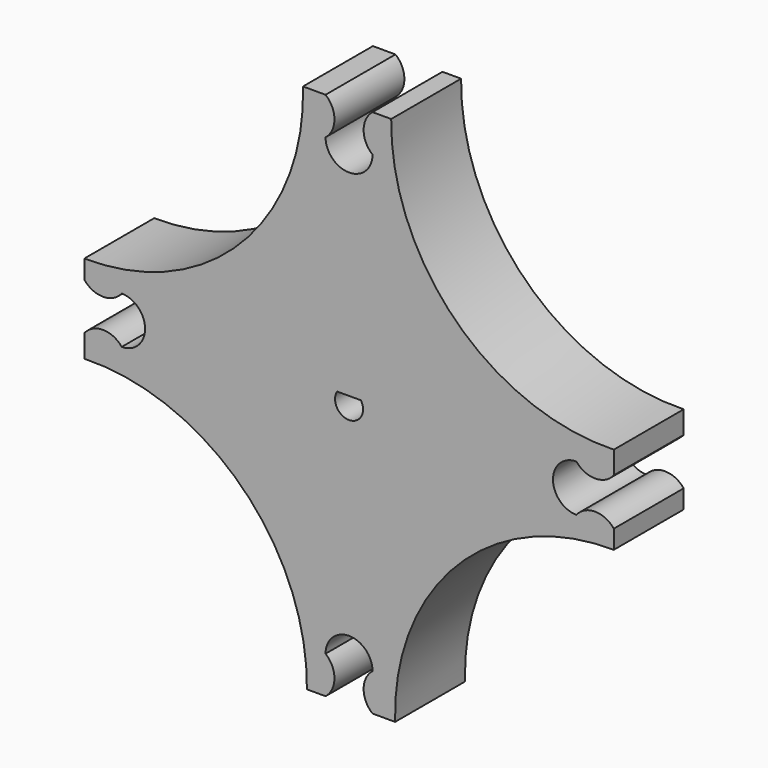
from build123d import *

# Parameters (mm, degrees)
F1_DEPTH = 19.05
F4_DEPTH = 19.051
F6_DEPTH = 19.051
F7_DEPTH = 19.051


with BuildPart() as f1:
    # F0 (on Front) → F1 (new body)
    with BuildSketch(Plane.XZ):
        with BuildLine():
            ThreePointArc((7.08977, 74.735215), (-4.612113, 72.936745), (-10.446423, 62.634833))
            ThreePointArc((-10.446423, 62.634833), (-45.232522, 44.567577), (-62.782662, 9.51774))
            ThreePointArc((-62.782662, 9.51774), (-63.498259, -0.470187), (-62.634833, -10.446423))
            ThreePointArc((-62.634833, -10.446423), (-44.567577, -45.232522), (-9.51774, -62.782662))
            ThreePointArc((-9.51774, -62.782662), (0.470187, -63.498259), (10.446423, -62.634833))
            ThreePointArc((10.446423, -62.634833), (45.232522, -44.567577), (62.782662, -9.51774))
            ThreePointArc((62.782662, -9.51774), (63.498259, 0.470187), (62.634833, 10.446423))
            ThreePointArc((62.634833, 10.446423), (44.567577, 45.232522), (9.51774, 62.782662))
            ThreePointArc((9.51774, 62.782662), (4.127105, 67.910519), (7.08977, 74.735215))
        make_face()
        with BuildLine():
            ThreePointArc((-62.634833, -10.446423), (-63.498259, -0.470187), (-62.782662, 9.51774))
            ThreePointArc((-62.782662, 9.51774), (-67.910519, 4.127105), (-74.735215, 7.08977))
            ThreePointArc((-74.735215, 7.08977), (-72.936745, -4.612113), (-62.634833, -10.446423))
        make_face()
        with BuildLine():
            ThreePointArc((74.735215, -7.08977), (72.936745, 4.612113), (62.634833, 10.446423))
            ThreePointArc((62.634833, 10.446423), (63.498259, 0.470187), (62.782662, -9.51774))
            ThreePointArc((62.782662, -9.51774), (67.910519, -4.127105), (74.735215, -7.08977))
        make_face()
        with BuildLine():
            ThreePointArc((10.446423, -62.634833), (0.470187, -63.498259), (-9.51774, -62.782662))
            ThreePointArc((-9.51774, -62.782662), (-4.127105, -67.910519), (-7.08977, -74.735215))
            ThreePointArc((-7.08977, -74.735215), (4.612113, -72.936745), (10.446423, -62.634833))
        make_face()
    extrude(amount=F1_DEPTH)

    # F3 (on face) → F4 (cut, through all)
    with BuildSketch(Plane.XZ.offset(19.05)):
        with BuildLine():
            Line((39.873943, 79.150751), (9.51774, 62.782662))
            ThreePointArc((9.51774, 62.782662), (23.239874, 23.586611), (62.634833, 10.446423))
            Line((62.634833, 10.446423), (86.088315, 35.227999))
            Line((86.088315, 35.227999), (39.873943, 79.150751))
        make_face()
        with BuildLine():
            Line((-79.150751, 39.873943), (-62.782662, 9.51774))
            ThreePointArc((-62.782662, 9.51774), (-23.586611, 23.239874), (-10.446423, 62.634833))
            Line((-10.446423, 62.634833), (-35.227999, 86.088315))
            Line((-35.227999, 86.088315), (-79.150751, 39.873943))
        make_face()
        with BuildLine():
            Line((-39.873943, -79.150751), (-9.51774, -62.782662))
            ThreePointArc((-9.51774, -62.782662), (-23.239874, -23.586611), (-62.634833, -10.446423))
            Line((-62.634833, -10.446423), (-86.088315, -35.227999))
            Line((-86.088315, -35.227999), (-39.873943, -79.150751))
        make_face()
        with BuildLine():
            Line((79.150751, -39.873943), (62.782662, -9.51774))
            ThreePointArc((62.782662, -9.51774), (23.586611, -23.239874), (10.446423, -62.634833))
            Line((10.446423, -62.634833), (35.227999, -86.088315))
            Line((35.227999, -86.088315), (79.150751, -39.873943))
        make_face()
    extrude(amount=-F4_DEPTH, mode=Mode.SUBTRACT)

    # F5 (on face) → F6 (cut, through all)
    with BuildSketch(Plane.XZ.offset(19.05)):
        with BuildLine():
            ThreePointArc((-5.122292, 49.557197), (0, 44.457518), (5.122292, 49.557197))
            ThreePointArc((5.122292, 49.557197), (3.175, 53.635843), (5.122292, 57.714488))
            Line((5.122292, 57.714488), (9.185783, 57.714488))
            ThreePointArc((9.185783, 57.714488), (9.283466, 60.253048), (9.51774, 62.782662))
            ThreePointArc((9.51774, 62.782662), (4.127105, 67.910519), (7.08977, 74.735215))
            ThreePointArc((7.08977, 74.735215), (-4.612113, 72.936745), (-10.446423, 62.634833))
            ThreePointArc((-10.446423, 62.634833), (-10.180474, 60.179939), (-10.043413, 57.714488))
            Line((-10.043413, 57.714488), (-5.122292, 57.714488))
            ThreePointArc((-5.122292, 57.714488), (-3.175, 53.635843), (-5.122292, 49.557197))
        make_face()
        with BuildLine():
            Line((-57.714488, 5.122292), (-57.714488, 9.185783))
            ThreePointArc((-57.714488, 9.185783), (-60.253048, 9.283466), (-62.782662, 9.51774))
            ThreePointArc((-62.782662, 9.51774), (-67.910519, 4.127105), (-74.735215, 7.08977))
            ThreePointArc((-74.735215, 7.08977), (-72.936745, -4.612113), (-62.634833, -10.446423))
            ThreePointArc((-62.634833, -10.446423), (-60.179939, -10.180474), (-57.714488, -10.043413))
            Line((-57.714488, -10.043413), (-57.714488, -5.122292))
            ThreePointArc((-57.714488, -5.122292), (-53.635843, -3.175), (-49.557197, -5.122292))
            ThreePointArc((-49.557197, -5.122292), (-44.457518, 0), (-49.557197, 5.122292))
            ThreePointArc((-49.557197, 5.122292), (-53.635843, 3.175), (-57.714488, 5.122292))
        make_face()
        with BuildLine():
            ThreePointArc((10.446423, -62.634833), (10.180474, -60.179939), (10.043413, -57.714488))
            Line((10.043413, -57.714488), (5.122292, -57.714488))
            ThreePointArc((5.122292, -57.714488), (3.175, -53.635843), (5.122292, -49.557197))
            ThreePointArc((5.122292, -49.557197), (0, -44.457518), (-5.122292, -49.557197))
            ThreePointArc((-5.122292, -49.557197), (-3.175, -53.635843), (-5.122292, -57.714488))
            Line((-5.122292, -57.714488), (-9.185783, -57.714488))
            ThreePointArc((-9.185783, -57.714488), (-9.283466, -60.253048), (-9.51774, -62.782662))
            ThreePointArc((-9.51774, -62.782662), (-4.127105, -67.910519), (-7.08977, -74.735215))
            ThreePointArc((-7.08977, -74.735215), (4.612113, -72.936745), (10.446423, -62.634833))
        make_face()
        with BuildLine():
            ThreePointArc((62.634833, 10.446423), (60.179939, 10.180474), (57.714488, 10.043413))
            Line((57.714488, 10.043413), (57.714488, 5.122292))
            ThreePointArc((57.714488, 5.122292), (53.635843, 3.175), (49.557197, 5.122292))
            ThreePointArc((49.557197, 5.122292), (44.457518, 0), (49.557197, -5.122292))
            ThreePointArc((49.557197, -5.122292), (53.635843, -3.175), (57.714488, -5.122292))
            Line((57.714488, -5.122292), (57.714488, -9.185783))
            ThreePointArc((57.714488, -9.185783), (60.253048, -9.283466), (62.782662, -9.51774))
            ThreePointArc((62.782662, -9.51774), (67.910519, -4.127105), (74.735215, -7.08977))
            ThreePointArc((74.735215, -7.08977), (72.936745, 4.612113), (62.634833, 10.446423))
        make_face()
    extrude(amount=-F6_DEPTH, mode=Mode.SUBTRACT)

    # F2 (on face) → F7 (cut, through all)
    with BuildSketch(Plane(origin=(0, 0, 0), x_dir=(-1, 0, 0), z_dir=(0, 1, 0))):
        with BuildLine():
            Line((-1.5875, 1.5875), (-2.601951, 1.5875))
            ThreePointArc((-2.601951, 1.5875), (0, -3.048), (2.601951, 1.5875))
            Line((2.601951, 1.5875), (-1.5875, 1.5875))
        make_face()
    extrude(amount=-F7_DEPTH, mode=Mode.SUBTRACT)


solid = f1.part
